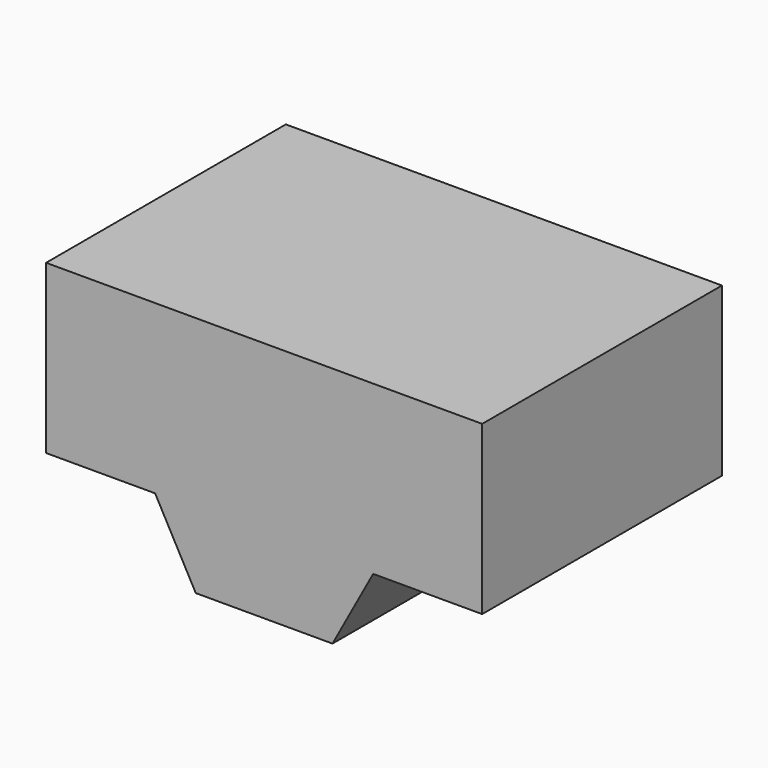
from build123d import *

# Parameters (mm, degrees)
F1_DEPTH = 17.018
F2_SCALE = 1.4061538462


with BuildPart() as f1:
    # F0 (on Front) → F1 (new body)
    with BuildSketch(Plane.XZ):
        Polygon((-36.0220632184, 27.0750209246), (-48.4045632184, 27.0750209246), (-48.4045632184, 17.5627209246), (-42.2133132184, 17.5627209246), (-36.0220632184, 17.5627209246), align=None)
        Polygon((-23.6395632184, 27.0750209246), (-36.0220632184, 27.0750209246), (-36.0220632184, 17.5627209246), (-29.8308132184, 17.5627209246), (-23.6395632184, 17.5627209246), align=None)
        Polygon((-29.8308132184, 17.5627209246), (-36.0220632184, 17.5627209246), (-42.2133132184, 17.5627209246), (-39.9048694572, 13.3246360503), (-32.1392569795, 13.3246360503), align=None)
    extrude(amount=F1_DEPTH)


with BuildPart() as f1_1:
    # F2: moved
    add(f1.part.scale(F2_SCALE))


solid = f1_1.part
